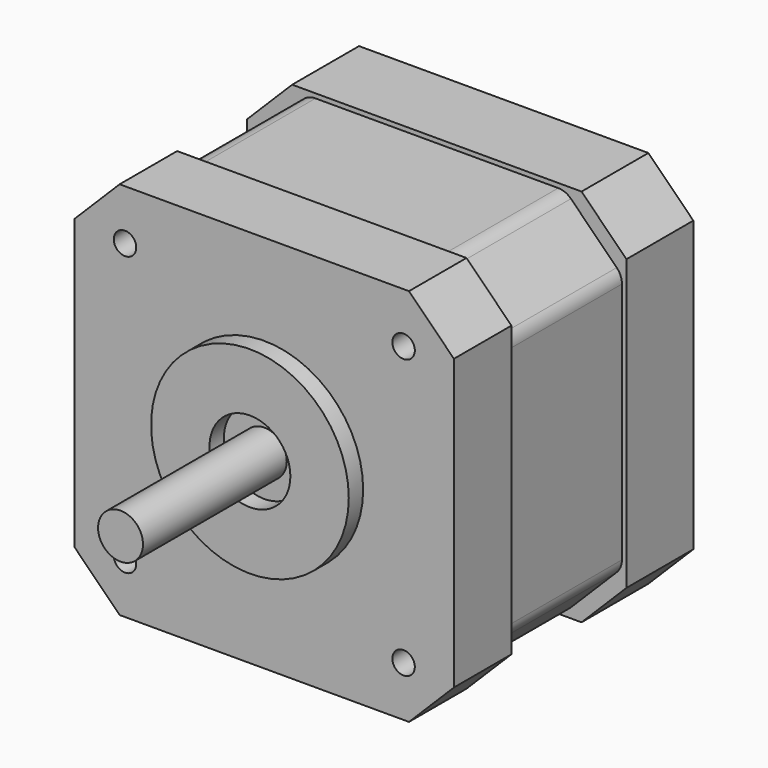
from build123d import *

# Parameters (mm, degrees)
F0_W      = 42.2
F0_H      = 42.2
F0_R      = 2.5
F1_DEPTH  = 33.3
F2_SIZE   = 5
F3_DEPTH  = 20
F4_R      = 11
F4_R_2    = 4.5
F5_DEPTH  = 2
F6_R      = 1.25
F7_DEPTH  = 5
F9_W      = 50.7564134896
F9_H      = 50.1955691725
F10_DEPTH = 16
F11_R     = 2


with BuildPart() as f1:
    # F0 (on Front) → F1 (new body)
    with BuildSketch(Plane.XZ):
        Rectangle(F0_W, F0_H)
        Circle(F0_R, mode=Mode.SUBTRACT)
        Circle(F0_R)
    extrude(amount=-F1_DEPTH)

    # F2
    f2_edges = [f1.edges().sort_by_distance(p)[0] for p in [
        (21.1, 16.65, 21.1),
        (-21.1, 16.65, 21.1),
        (21.1, 16.65, -21.1),
        (-21.1, 16.65, -21.1),
    ]]
    chamfer(f2_edges, length=F2_SIZE)

    # F0 (on Front) → F3 (join)
    with BuildSketch(Plane.XZ):
        Circle(F0_R)
    extrude(amount=F3_DEPTH)

    # F4 (on face) → F5 (join)
    with BuildSketch(Plane.XZ):
        Circle(F4_R)
        Circle(F4_R_2, mode=Mode.SUBTRACT)
    extrude(amount=F5_DEPTH)

    # F6 (on face) → F7 (cut)
    with BuildSketch(Plane.XZ):
        with Locations((-15.5, 15.5)):
            Circle(F6_R)
        with Locations((-15.5, -15.5)):
            Circle(F6_R)
        with Locations((15.5, -15.5)):
            Circle(F6_R)
        with Locations((15.5, 15.5)):
            Circle(F6_R)
    extrude(amount=-F7_DEPTH, mode=Mode.SUBTRACT)

    # F9 (on offset) → F10 (cut)
    with BuildSketch(Plane.XZ.offset(-8)):
        with Locations((0.5305930972, 0.0707069412)):
            Rectangle(F9_W, F9_H)
        Polygon((-14.3372583002, 20.6), (0, 20.6), (14.3372583002, 20.6), (20.6, 14.3372583002), (20.6, 0), (20.6, -14.3372583002), (14.3372583002, -20.6), (0, -20.6), (-14.3372583002, -20.6), (-20.6, -14.3372583002), (-20.6, 0), (-20.6, 14.3372583002), align=None, mode=Mode.SUBTRACT)
    extrude(amount=-F10_DEPTH, mode=Mode.SUBTRACT)

    # F11
    f11_edges = [f1.edges().sort_by_distance(p)[0] for p in [
        (20.6, 16, 14.337258),
        (14.337258, 16, 20.6),
        (-14.337258, 16, 20.6),
        (-20.6, 16, 14.337258),
        (-20.6, 16, -14.337258),
        (-14.337258, 16, -20.6),
        (20.6, 16, -14.337258),
        (14.337258, 16, -20.6),
    ]]
    fillet(f11_edges, radius=F11_R)


solid = f1.part
